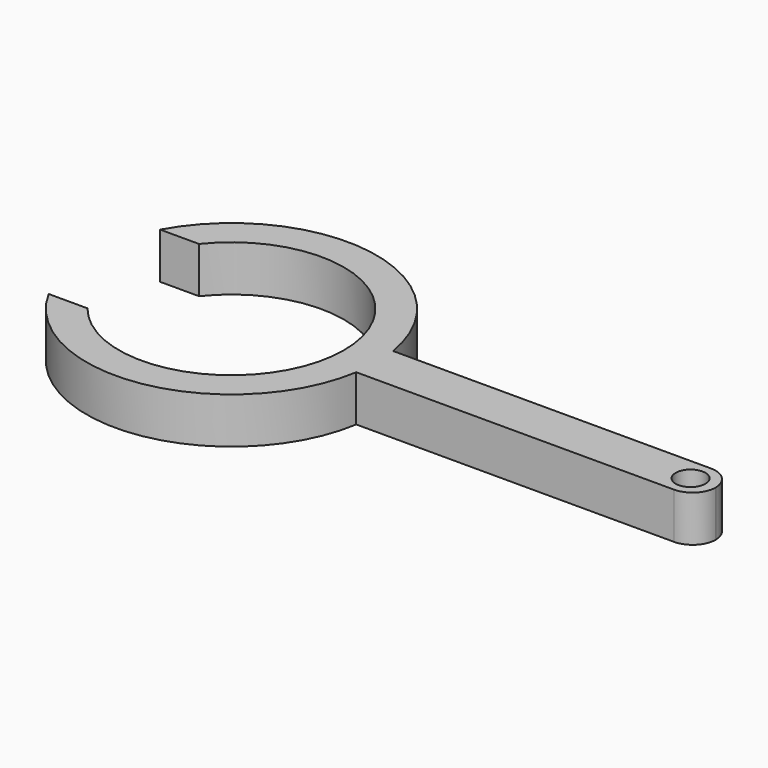
from build123d import *

# Parameters (mm, degrees)
F1_DEPTH = 4.95
F0_R     = 1.6
F2_DEPTH = 22


with BuildPart() as f1:
    # F0 (on Top) → F1 (new body)
    with BuildSketch(Plane.XY):
        with BuildLine():
            ThreePointArc((20, 0.025), (19.999968749, 0.0124998437), (19.9998749969, 0))
            ThreePointArc((19.9998749969, 0), (19.999968749, -0.0124998437), (20, -0.025))
            Line((20, -0.025), (20, 0.025))
        make_face()
    extrude(amount=F1_DEPTH)


with BuildPart() as f1b:
    # F0 (on Top) → F1, piece 2 (new body)
    with BuildSketch(Plane.XY):
        with BuildLine():
            Line((-16.6975854166, -2.475), (17.5, -2.475))
            ThreePointArc((17.5, -2.475), (19.2589059099, -1.7515838004), (19.9998749969, 0))
            ThreePointArc((19.9998749969, 0), (19.2589059099, 1.7515838004), (17.5, 2.475))
            Line((17.5, 2.475), (-16.6975854166, 2.475))
            ThreePointArc((-16.6975854166, 2.475), (-16.5494748079, 1.2414371709), (-16.5, 0))
            ThreePointArc((-16.5, 0), (-16.5494748079, -1.2414371709), (-16.6975854166, -2.475))
        make_face()
        with Locations((17.3, 0)):
            Circle(F0_R, mode=Mode.SUBTRACT)
        with BuildLine():
            ThreePointArc((-45.7788157382, -7.5), (-29.4438082722, -15.3722036646), (-16.6975854166, -2.475))
            Line((-16.6975854166, -2.475), (-20, -2.475))
            Line((-20, -2.475), (-20, 0))
            ThreePointArc((-20, 0), (-28.1302814907, -11.4302814907), (-41.5952619764, -7.5))
            Line((-41.5952619764, -7.5), (-45.7788157382, -7.5))
        make_face()
        with BuildLine():
            Line((-20, -2.475), (-16.6975854166, -2.475))
            ThreePointArc((-16.6975854166, -2.475), (-16.5494748079, -1.2414371709), (-16.5, 0))
            ThreePointArc((-16.5, 0), (-16.5494748079, 1.2414371709), (-16.6975854166, 2.475))
            Line((-16.6975854166, 2.475), (-20, 2.475))
            Line((-20, 2.475), (-20, 0))
            Line((-20, 0), (-20, -2.475))
        make_face()
        with BuildLine():
            Line((-53.3, -7.5), (-45.7788157382, -7.5))
            ThreePointArc((-45.7788157382, -7.5), (-47.7, 0), (-45.7788157382, 7.5))
            Line((-45.7788157382, 7.5), (-53.3, 7.5))
            Line((-53.3, 7.5), (-53.3, -7.5))
        make_face()
        with BuildLine():
            ThreePointArc((-45.7788157382, 7.5), (-47.7, 0), (-45.7788157382, -7.5))
            Line((-45.7788157382, -7.5), (-41.5952619764, -7.5))
            ThreePointArc((-41.5952619764, -7.5), (-44.2, 0), (-41.5952619764, 7.5))
            Line((-41.5952619764, 7.5), (-45.7788157382, 7.5))
        make_face()
        with BuildLine():
            ThreePointArc((-41.5952619764, 7.5), (-28.1302814907, 11.4302814907), (-20, 0))
            Line((-20, 0), (-20, 2.475))
            Line((-20, 2.475), (-16.6975854166, 2.475))
            ThreePointArc((-16.6975854166, 2.475), (-29.4438082722, 15.3722036646), (-45.7788157382, 7.5))
            Line((-45.7788157382, 7.5), (-41.5952619764, 7.5))
        make_face()
    extrude(amount=F1_DEPTH)

    # F0 (on Top) → F2 (cut)
    with BuildSketch(Plane.XY):
        with BuildLine():
            Line((-53.3, -7.5), (-45.7788157382, -7.5))
            ThreePointArc((-45.7788157382, -7.5), (-47.7, 0), (-45.7788157382, 7.5))
            Line((-45.7788157382, 7.5), (-53.3, 7.5))
            Line((-53.3, 7.5), (-53.3, -7.5))
        make_face()
        with BuildLine():
            ThreePointArc((-45.7788157382, 7.5), (-47.7, 0), (-45.7788157382, -7.5))
            Line((-45.7788157382, -7.5), (-41.5952619764, -7.5))
            ThreePointArc((-41.5952619764, -7.5), (-44.2, 0), (-41.5952619764, 7.5))
            Line((-41.5952619764, 7.5), (-45.7788157382, 7.5))
        make_face()
        with BuildLine():
            ThreePointArc((-41.5952619764, 7.5), (-44.2, 0), (-41.5952619764, -7.5))
            Line((-41.5952619764, -7.5), (-35.1, -7.5))
            Line((-35.1, -7.5), (-35.1, 7.5))
            Line((-35.1, 7.5), (-41.5952619764, 7.5))
        make_face()
        with BuildLine():
            ThreePointArc((-41.5952619764, -7.5), (-28.1302814907, -11.4302814907), (-20, 0))
            ThreePointArc((-20, 0), (-28.1302814907, 11.4302814907), (-41.5952619764, 7.5))
            Line((-41.5952619764, 7.5), (-35.1, 7.5))
            Line((-35.1, 7.5), (-35.1, -7.5))
            Line((-35.1, -7.5), (-41.5952619764, -7.5))
        make_face()
    extrude(amount=F2_DEPTH, mode=Mode.SUBTRACT)


solid = Compound([f1.part, f1b.part])
